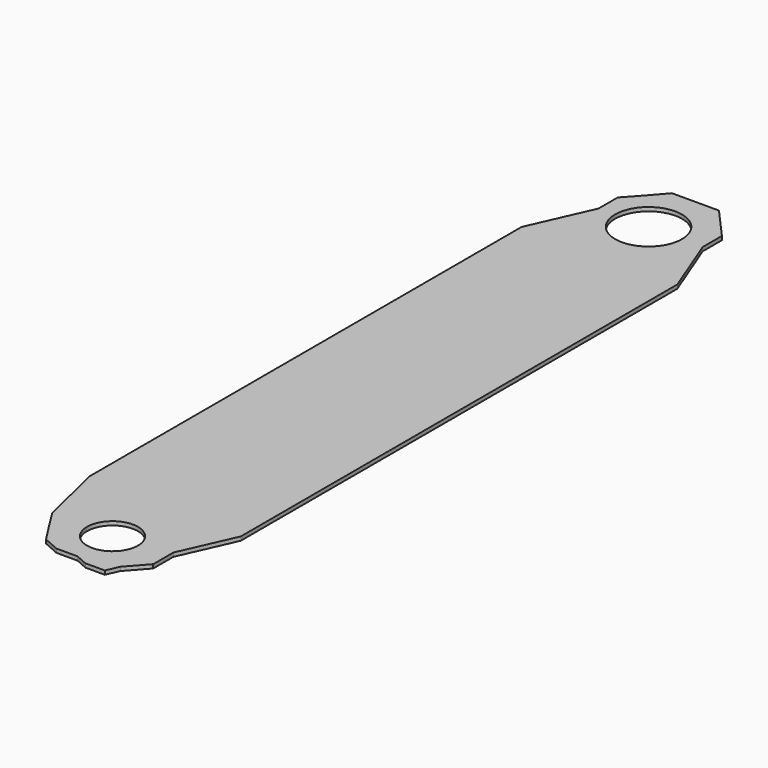
from build123d import *

# Parameters (mm, degrees)
F2_DEPTH = 0.762
F3_D     = 13.335
F4_D     = 10.16
F6_DEPTH = 0.2286


with BuildPart() as f2:
    # F1 (on Top) → F2 (new body)
    with BuildSketch(Plane.XY):
        Polygon((5.1344926469, 79.8476114869), (0, 79.8476114869), (-4.2268559337, 79.8476114869), (-7.4234125204, 76.1947035789), (-9.9349934608, 73.4550207853), (-9.9349934608, 68.6605796218), (-15.4148070142, 56.3320219517), (-15.4148070142, -51.4287278056), (-12.2182490304, -64.6705105901), (-9.9349934608, -68.323418498), (-7.4234125204, -72.2046345472), (-4.2268559337, -73.6254442297), (0, -73.6254442297), (2.4043139854, -74.6941168771), (6.2761204317, -74.6941168771), (7.382648817, -72.2046345472), (10.842631571, -68.323418498), (10.842631571, -63.3006691933), (15.6444913902, -52.4973808827), (15.6444913902, -7.1372324601), (15.6444913902, 14.5519021899), (15.6444913902, 38.0674898624), (15.6444913902, 52.4508096278), (15.6444913902, 56.3320219517), (10.842631571, 68.6605796218), (10.842631571, 73.4550207853), align=None)
    extrude(amount=F2_DEPTH)

    # F3 (through all)
    with Locations(Plane(origin=(0, 0, 0), x_dir=(1, 0, 0), z_dir=(0, 0, -1))):
        with Locations((0, -68.7236785889)):
            Hole(F3_D / 2)

    # F4 (through all)
    with Locations(Plane(origin=(0, 0, 0), x_dir=(1, 0, 0), z_dir=(0, 0, -1))):
        with Locations((0, 64.9243146181)):
            Hole(F4_D / 2)

    # F5 (on Top) → F6 (cut)
    with BuildSketch(Plane.XY):
        Polygon((14.8983420804, 55.9992268682), (13.3339157328, 55.0209134817), (3.0205850489, 43.9974281211), (3.0205850489, 39.1634636204), (14.8983420804, 51.9865565002), align=None)
        Polygon((3.0205850489, 39.1634636204), (3.0205850489, 43.9974281211), (0, 40.7688518165), (0, 35.9024739797), align=None)
        Polygon((0, 40.7688518165), (3.0205850489, 43.9974281211), (3.0205850489, 55.0209134817), (0, 55.0209134817), align=None)
        Polygon((0, 35.9024739797), (0, 40.7688518165), (-14.7966286168, 24.9533578753), (-14.7966286168, 19.9282001704), align=None)
        Polygon((3.0205850489, 8.5766670856), (3.0205850489, 39.1634636204), (0, 35.9024739797), (0, 5.5005631668), align=None)
        Polygon((3.0205850489, 3.6877155311), (3.0205850489, 8.5766670856), (0, 5.5005631668), (0, 0.6926685426), align=None)
        Polygon((13.3339157328, 19.0795585513), (3.0205850489, 8.5766670856), (3.0205850489, 3.6877155311), (14.8983420804, 15.4650500044), (14.8983420804, 20.2802531421), align=None)
        Polygon((0, 0.6926685426), (0, 5.5005631668), (-14.7966286168, -9.5680300146), (-14.7966286168, -13.9788594097), align=None)
        Polygon((3.0205850489, -32.5537367418), (3.0205850489, 3.6877155311), (0, 0.6926685426), (0, -35.6298406606), align=None)
        Polygon((3.0205850489, -37.0688434684), (3.0205850489, -32.5537367418), (0, -35.6298406606), (0, -40.0638904568), align=None)
        Polygon((14.8983420804, -20.4576645046), (3.0205850489, -32.5537367418), (3.0205850489, -37.0688434684), (14.8983420804, -25.291508995), align=None)
        Polygon((0, -40.0638904568), (0, -35.6298406606), (-14.7966286168, -50.698433842), (-14.7966286168, -54.7354184091), align=None)
        Polygon((3.0205850489, -50.698433842), (3.0205850489, -37.0688434684), (0, -40.0638904568), (0, -50.698433842), align=None)
    extrude(amount=F6_DEPTH, mode=Mode.SUBTRACT)


solid = f2.part
